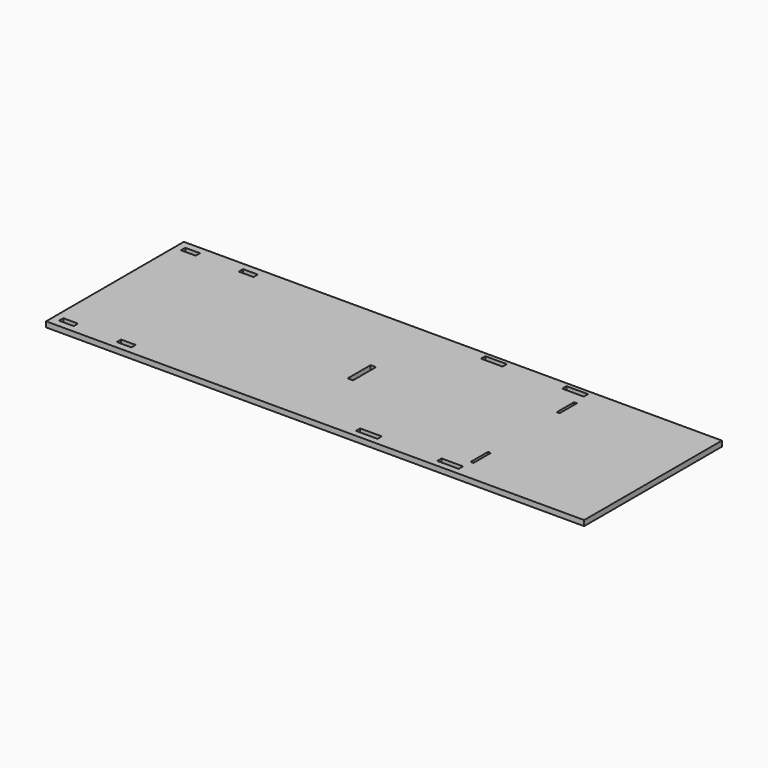
from build123d import *

# Parameters (mm, degrees)
F0_W     = 304.8
F0_H     = 609.6
F0_W_2   = 76.2
F0_H_2   = 19.05
F0_W_3   = 10.16
F0_H_3   = 76.2
F1_DEPTH = 19.05
F3_DEPTH = 19.05
F6_W     = 52.07
F6_H     = 19.05
F7_DEPTH = 19.05


with BuildPart() as f1:
    # F0 (on Top) → F1 (new body)
    with BuildSketch(Plane.XY):
        with Locations((-598.51975, 52.173435)):
            Rectangle(F0_W, F0_H)
        Polygon((239.68025, 356.973435), (-446.11975, 356.973435), (-446.11975, -252.626565), (239.68025, -252.626565), (696.88025, -252.626565), (1154.08025, -252.626565), (1154.08025, 356.973435), (696.88025, 356.973435), align=None)
        with Locations((365.758981, -220.241565)):
            Rectangle(F0_W_2, F0_H_2, mode=Mode.SUBTRACT)
        with Locations((653.70025, -220.241565)):
            Rectangle(F0_W_2, F0_H_2, mode=Mode.SUBTRACT)
        with Locations((696.419128, -138.326565)):
            Rectangle(F0_W_3, F0_H_3, mode=Mode.SUBTRACT)
        with Locations((365.758981, 333.478435)):
            Rectangle(F0_W_2, F0_H_2, mode=Mode.SUBTRACT)
        with Locations((653.109181, 333.478435)):
            Rectangle(F0_W_2, F0_H_2, mode=Mode.SUBTRACT)
        with Locations((696.419128, 242.673435)):
            Rectangle(F0_W_3, F0_H_3, mode=Mode.SUBTRACT)
        Polygon((239.68025, 356.973435), (-446.11975, 356.973435), (-446.11975, -252.626565), (239.68025, -252.626565), (696.88025, -252.626565), (1154.08025, -252.626565), (1154.08025, 356.973435), (696.88025, 356.973435), align=None)
        with Locations((365.758981, -220.241565)):
            Rectangle(F0_W_2, F0_H_2, mode=Mode.SUBTRACT)
        with Locations((653.70025, -220.241565)):
            Rectangle(F0_W_2, F0_H_2, mode=Mode.SUBTRACT)
        with Locations((696.419128, -138.326565)):
            Rectangle(F0_W_3, F0_H_3, mode=Mode.SUBTRACT)
        with Locations((365.758981, 333.478435)):
            Rectangle(F0_W_2, F0_H_2, mode=Mode.SUBTRACT)
        with Locations((653.109181, 333.478435)):
            Rectangle(F0_W_2, F0_H_2, mode=Mode.SUBTRACT)
        with Locations((696.419128, 242.673435)):
            Rectangle(F0_W_3, F0_H_3, mode=Mode.SUBTRACT)
    extrude(amount=F1_DEPTH)

    # F2 (on face) → F3 (cut)
    with BuildSketch(Plane.XY.offset(19.05)):
        Polygon((132.539128, 1.373435), (132.539128, 52.173435), (132.539128, 102.973435), (113.489128, 102.973435), (113.489128, 1.373435), align=None)
    extrude(amount=-F3_DEPTH, mode=Mode.SUBTRACT)

    # F6 (on face) → F7 (cut)
    with BuildSketch(Plane.XY.offset(19.05)):
        with Locations((-699.48475, -217.701565)):
            Rectangle(F6_W, F6_H)
        with Locations((-495.01475, -217.701565)):
            Rectangle(F6_W, F6_H)
        with Locations((-495.01475, 322.048435)):
            Rectangle(F6_W, F6_H)
        with Locations((-699.48475, 322.048435)):
            Rectangle(F6_W, F6_H)
    extrude(amount=-F7_DEPTH, mode=Mode.SUBTRACT)


solid = f1.part
